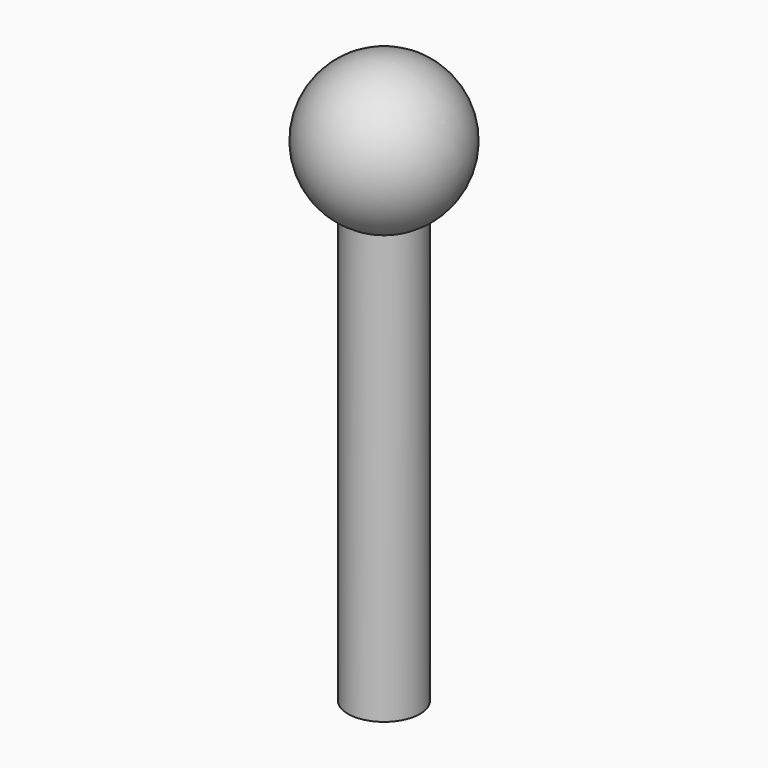
from build123d import *

# Parameters (mm, degrees)
F2_R     = 9.5
F3_DEPTH = 130


with BuildPart() as f1:
    # F0 (on Front) → F1 (revolve)
    with BuildSketch(Plane.XZ):
        with BuildLine():
            Line((0, 19.5), (0, -19.5))
            ThreePointArc((0, -19.5), (19.5, 0), (0, 19.5))
        make_face()
    revolve(axis=Axis((0, 0, 0), (0, 0, -1)))

    # F2 (on Top) → F3 (join)
    with BuildSketch(Plane.XY):
        Circle(F2_R)
    extrude(amount=-F3_DEPTH)


solid = f1.part
